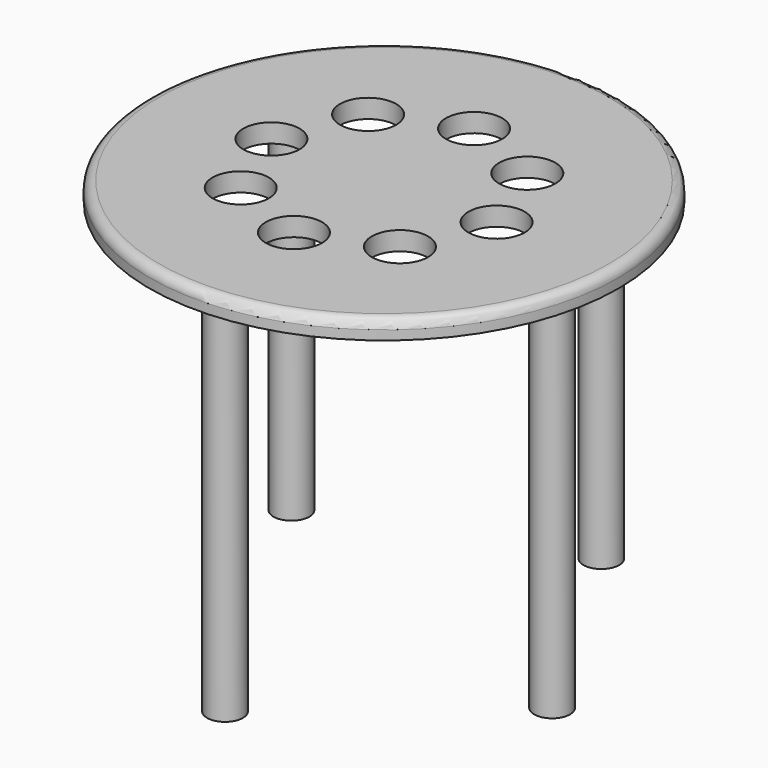
from build123d import *

# Parameters (mm, degrees)
F0_R     = 125
F2_DEPTH = 10
F1_R     = 15
F3_DEPTH = 10
F4_R     = 5
F5_R     = 9.544074
F6_DEPTH = 196


with BuildPart() as f2:
    # F0 (on Top) → F2 (new body)
    with BuildSketch(Plane.XY):
        Circle(F0_R)
    extrude(amount=-F2_DEPTH)

    # F1 (on face) → F3 (cut)
    with BuildSketch(Plane.XY):
        with Locations((-42.426407, 42.426407)):
            Circle(F1_R)
        with Locations((0, 60)):
            Circle(F1_R)
        with Locations((42.426407, 42.426407)):
            Circle(F1_R)
        with Locations((60, 0)):
            Circle(F1_R)
        with Locations((42.426407, -42.426407)):
            Circle(F1_R)
        with Locations((0, -60)):
            Circle(F1_R)
        with Locations((-42.426407, -42.426407)):
            Circle(F1_R)
        with Locations((-60, 0)):
            Circle(F1_R)
    extrude(amount=-F3_DEPTH, mode=Mode.SUBTRACT)

    # F4
    f4_edges = [f2.edges().sort_by_distance(p)[0] for p in [
        (-125, 0, 0),
    ]]
    fillet(f4_edges, radius=F4_R)

    # F5 (on face) → F6 (join)
    with BuildSketch(Plane(origin=(0, 0, -10), x_dir=(1, 0, 0), z_dir=(0, 0, -1))):
        with Locations((0, 105.908468)):
            Circle(F5_R)
        with Locations((104.299481, 18.390813)):
            Circle(F5_R)
        with Locations((36.22283, -99.521406)):
            Circle(F5_R)
        with Locations((-91.719424, -52.954234)):
            Circle(F5_R)
    extrude(amount=F6_DEPTH)


solid = f2.part
